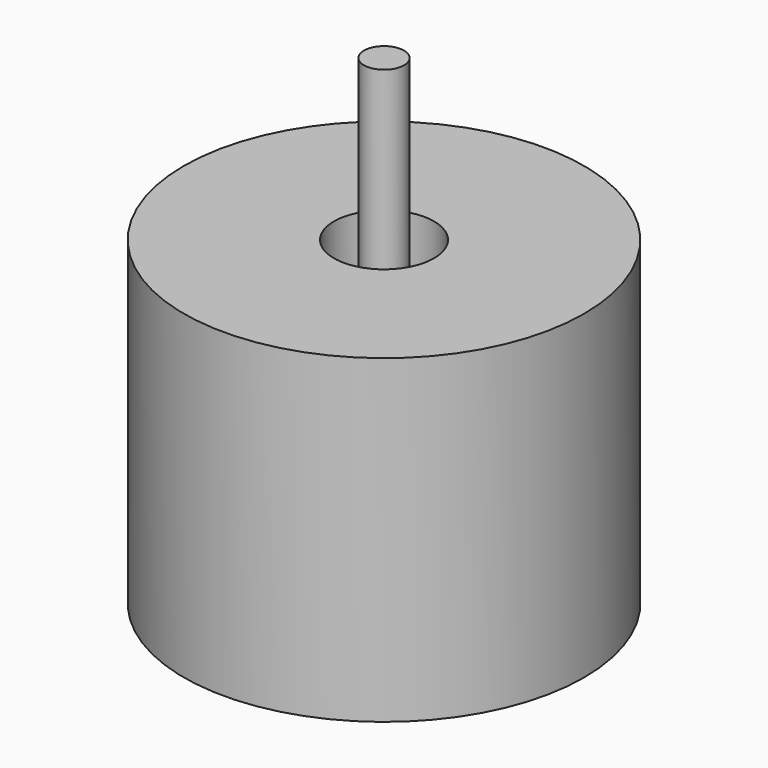
from build123d import *

# Parameters (mm, degrees)
F0_R     = 50
F0_R_2   = 42.5
F0_R_3   = 12.5
F1_DEPTH = 30
F0_R_4   = 5
F2_DEPTH = 90
F3_DEPTH = 50


with BuildPart() as f1:
    # F0 (on Top) → F1 (new body)
    with BuildSketch(Plane.XY):
        Circle(F0_R)
        Circle(F0_R_2, mode=Mode.SUBTRACT)
        Circle(F0_R_2)
        Circle(F0_R_3, mode=Mode.SUBTRACT)
    extrude(amount=-F1_DEPTH)

    # F3 (add): faces of the model
    f3_faces = [f1.faces().sort_by_distance(p)[0] for p in [
        (-48.5857864376, 0, 0),
        (-48.5857864376, 0, -30),
    ]]
    extrude(f3_faces, amount=F3_DEPTH, dir=(0, 0, 1))


with BuildPart() as f1b:
    # F0 (on Top) → F1, piece 2 (new body)
    with BuildSketch(Plane.XY):
        Circle(F0_R_4)
    extrude(amount=-F1_DEPTH)

    # F2 (add): a face of the model
    f2_faces = [f1b.faces().sort_by_distance(p)[0] for p in [
        (0, 0, 0),
    ]]
    extrude(f2_faces, amount=F2_DEPTH)


solid = Compound([f1.part, f1b.part])
